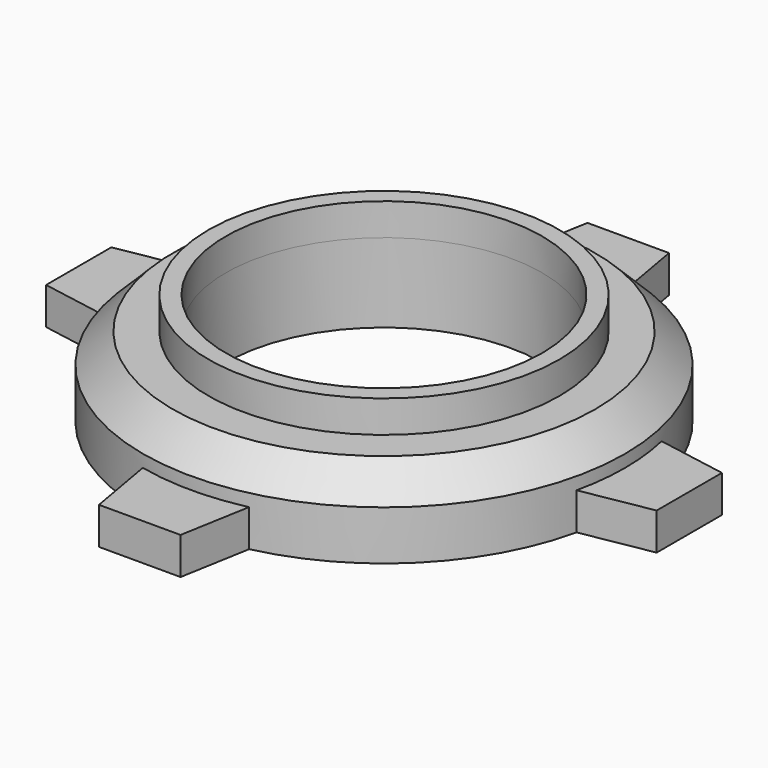
from build123d import *

# Parameters (mm, degrees)
F0_R      = 975
F1_DEPTH  = 320
F3_R      = 640
F4_DEPTH  = 320.001
F5_W      = 430
F5_H      = 150
F6_DEPTH  = 1235
F7_W      = 430
F7_H      = 150
F8_DEPTH  = 1235
F10_DEPTH = 150.001
F12_DEPTH = 150.001
F14_DEPTH = 150.001
F16_DEPTH = 150.001
F18_R     = 640
F19_DEPTH = 150.001
F20_R     = 710
F20_R_2   = 640
F21_DEPTH = 130
F22_SIZE  = 120


with BuildPart() as f1:
    # F0 (on Top) → F1 (new body)
    with BuildSketch(Plane.XY):
        Circle(F0_R)
    extrude(amount=F1_DEPTH)

    # F3 (on face) → F4 (cut, through all)
    with BuildSketch(Plane.XY.offset(320)):
        Circle(F3_R)
    extrude(amount=-F4_DEPTH, mode=Mode.SUBTRACT)

    # F5 (on Front) → F6 (join, symmetric)
    with BuildSketch(Plane.XZ):
        with Locations((0, 75)):
            Rectangle(F5_W, F5_H)
    extrude(amount=F6_DEPTH, both=True)

    # F7 (on Right) → F8 (join, symmetric)
    with BuildSketch(Plane.YZ):
        with Locations((0, 75)):
            Rectangle(F7_W, F7_H)
    extrude(amount=F8_DEPTH, both=True)

    # F9 (on face) → F10 (cut, through all)
    with BuildSketch(Plane.XY.offset(150)):
        Polygon((1235, -165), (950.999474, -215), (1235, -215), align=None)
        Polygon((950.999474, 215), (1235, 165), (1235, 215), align=None)
    extrude(amount=-F10_DEPTH, mode=Mode.SUBTRACT)

    # F11 (on face) → F12 (cut, through all)
    with BuildSketch(Plane.XY.offset(150)):
        Polygon((-165, -1235), (-215, -950.999474), (-215, -1235), align=None)
        Polygon((215, -950.999474), (165, -1235), (215, -1235), align=None)
    extrude(amount=-F12_DEPTH, mode=Mode.SUBTRACT)

    # F13 (on face) → F14 (cut, through all)
    with BuildSketch(Plane.XY.offset(150)):
        Polygon((215, 1235), (165, 1235), (215, 950.999474), align=None)
        Polygon((-215, 1235), (-215, 950.999474), (-165, 1235), align=None)
    extrude(amount=-F14_DEPTH, mode=Mode.SUBTRACT)

    # F15 (on face) → F16 (cut, through all)
    with BuildSketch(Plane.XY.offset(150)):
        Polygon((-1235, 165), (-950.999474, 215), (-1235, 215), align=None)
        Polygon((-950.999474, -215), (-1235, -165), (-1235, -215), align=None)
    extrude(amount=-F16_DEPTH, mode=Mode.SUBTRACT)

    # F18 (on face) → F19 (cut, through all)
    with BuildSketch(Plane.XY.offset(150)):
        Circle(F18_R)
    extrude(amount=-F19_DEPTH, mode=Mode.SUBTRACT)

    # F20 (on face) → F21 (join)
    with BuildSketch(Plane.XY.offset(320)):
        Circle(F20_R)
        Circle(F20_R_2, mode=Mode.SUBTRACT)
    extrude(amount=F21_DEPTH)

    # F22
    f22_edges = [f1.edges().sort_by_distance(p)[0] for p in [
        (-975, 0, 320),
    ]]
    chamfer(f22_edges, length=F22_SIZE)


solid = f1.part
